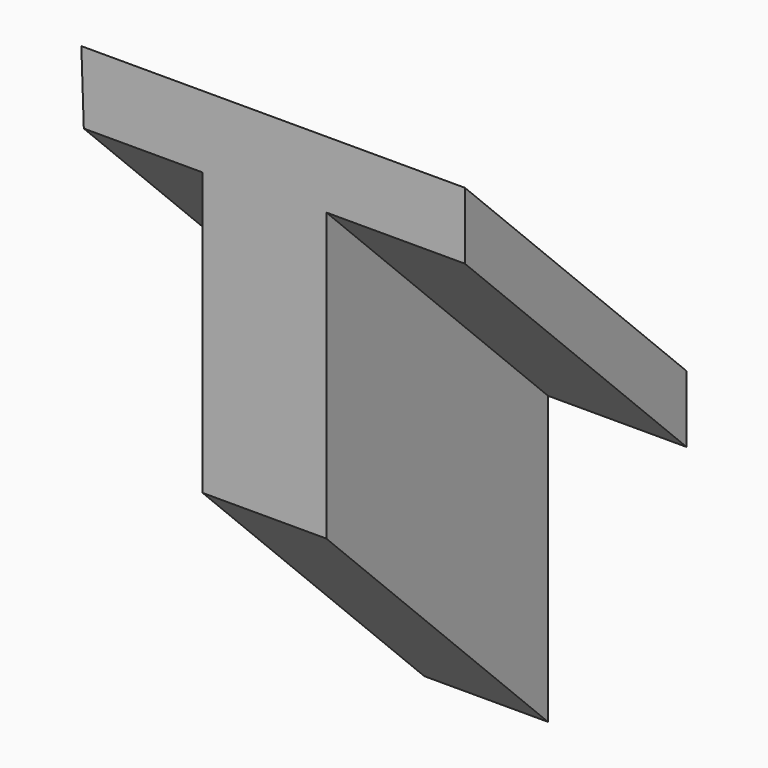
from build123d import *


with BuildPart() as f2:
    # F2: sweep along a path in F1
    with BuildLine(Plane.YZ) as f2_path:
        Line((0, 0), (69.312386, -68.5388))
    # F0 (on Front) → F2 (sweep)
    with BuildSketch(Plane.XZ):
        Polygon((51.365424, 43.474954), (-44.557959, 43.474954), (-43.939099, 25.527997), (-14.233792, 25.527997), (-14.233792, -45.022104), (16.709233, -45.022104), (16.709233, 26.765719), (51.365424, 26.765719), align=None)
    sweep(path=f2_path.line)


solid = f2.part
